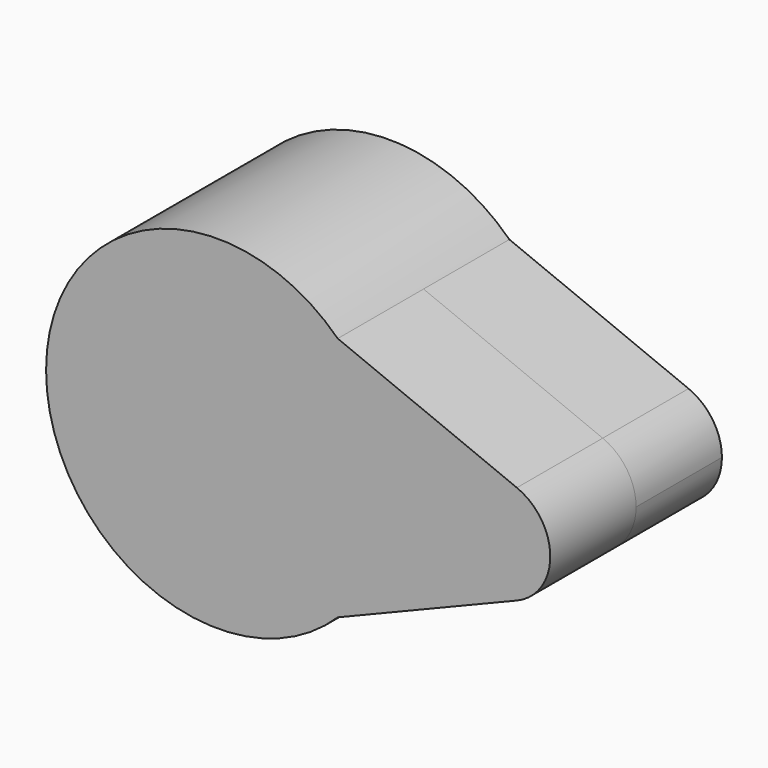
from build123d import *

# Parameters (mm, degrees)
F2_DEPTH = 25
F3_DEPTH = 25
F1_R     = 6
F4_DEPTH = 50


with BuildPart() as f2:
    # F0 (on Front) → F2 (new body)
    with BuildSketch(Plane.XZ):
        with BuildLine():
            ThreePointArc((27.96768, -28.597358), (36.869413, -15.512782), (40, 0))
            ThreePointArc((40, 0), (36.869413, 15.512782), (27.96768, 28.597358))
            ThreePointArc((27.96768, 28.597358), (-40, 0), (27.96768, -28.597358))
        make_face()
        with BuildLine():
            ThreePointArc((77.5, 0), (75.374004, 6.973524), (69.719193, 11.574939))
            ThreePointArc((69.719193, 11.574939), (52.5, 0), (69.719193, -11.574939))
            ThreePointArc((69.719193, -11.574939), (75.374004, -6.973524), (77.5, 0))
        make_face()
        with BuildLine():
            ThreePointArc((27.96768, 28.597358), (36.869413, 15.512782), (40, 0))
            ThreePointArc((40, 0), (36.869413, -15.512782), (27.96768, -28.597358))
            Line((27.96768, -28.597358), (69.719193, -11.574939))
            ThreePointArc((69.719193, -11.574939), (52.5, 0), (69.719193, 11.574939))
            Line((69.719193, 11.574939), (27.96768, 28.597358))
        make_face()
    extrude(amount=F2_DEPTH)

    # F2_face (on face) → F3 (join)
    with BuildSketch(Plane(origin=(11.147252, -25, 0), x_dir=(1, 0, 0), z_dir=(0, -1, 0))):
        with BuildLine():
            ThreePointArc((16.820428, 28.597358), (-51.147252, 0), (16.820428, -28.597358))
            Line((16.820428, -28.597358), (58.571942, -11.574939))
            ThreePointArc((58.571942, -11.574939), (66.352748, 0), (58.571942, 11.574939))
            Line((58.571942, 11.574939), (16.820428, 28.597358))
        make_face()
    extrude(amount=F3_DEPTH)

    # F1 (on Front) → F4 (join)
    with BuildSketch(Plane.XZ):
        Circle(F1_R)
        with Locations((64.783454, 0)):
            Circle(F1_R)
    extrude(amount=F4_DEPTH)


solid = f2.part
